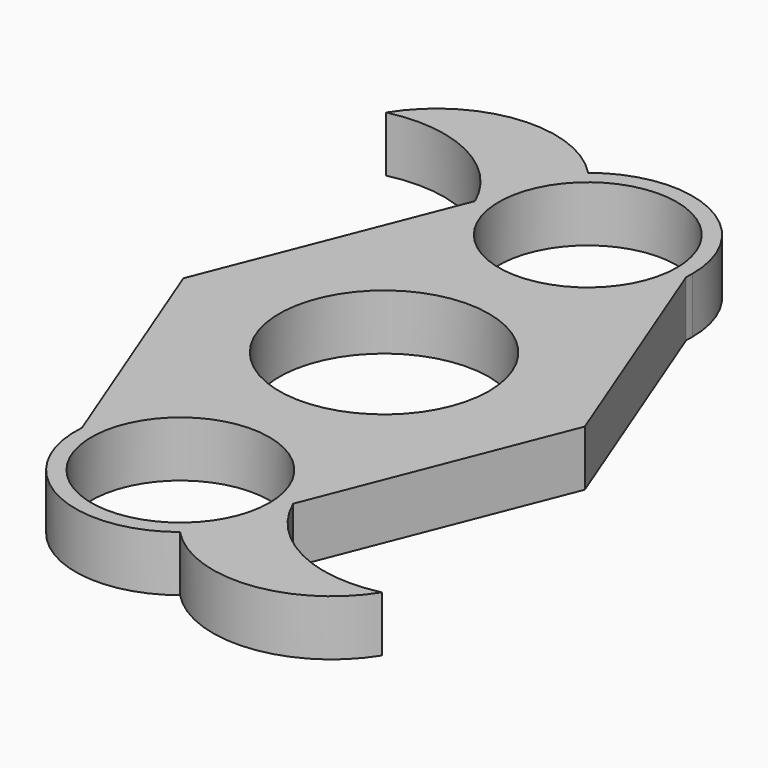
from build123d import *

# Parameters (mm, degrees)
F0_R     = 13.2
F0_R_2   = 11.2
F1_DEPTH = 7


with BuildPart() as f1:
    # F0 (on Top) → F1 (new body)
    with BuildSketch(Plane.XY):
        with BuildLine():
            Line((25.260696, 0), (13.164003, 31.0719))
            ThreePointArc((13.164003, 31.0719), (0.172192, 18.847203), (-13.134109, 30.728816))
            Line((-13.134109, 30.728816), (-25.260696, 0))
            Line((-25.260696, 0), (-13.164003, -31.0719))
            ThreePointArc((-13.164003, -31.0719), (-0.172192, -18.847203), (13.134109, -30.728816))
            Line((13.134109, -30.728816), (25.260696, 0))
        make_face()
        Circle(F0_R, mode=Mode.SUBTRACT)
        with BuildLine():
            ThreePointArc((13.164003, 31.0719), (13.190998, 31.558658), (13.2, 32.04608))
            ThreePointArc((13.2, 32.04608), (5.734035, 43.935606), (-8.218309, 42.375619))
            ThreePointArc((-8.218309, 42.375619), (-12.161145, 37.178969), (-13.134109, 30.728816))
            ThreePointArc((-13.134109, 30.728816), (0.172192, 18.847203), (13.164003, 31.0719))
        make_face()
        with Locations((0, 32.04608)):
            Circle(F0_R_2, mode=Mode.SUBTRACT)
        with BuildLine():
            ThreePointArc((-13.134109, 30.728816), (-12.161145, 37.178969), (-8.218309, 42.375619))
            ThreePointArc((-8.218309, 42.375619), (-20.557517, 46.954623), (-31.735331, 40.006258))
            ThreePointArc((-31.735331, 40.006258), (-20.760987, 38.723362), (-13.134109, 30.728816))
        make_face()
        with BuildLine():
            ThreePointArc((13.2, -32.04608), (13.183517, -31.386624), (13.134109, -30.728816))
            ThreePointArc((13.134109, -30.728816), (-0.172192, -18.847203), (-13.164003, -31.0719))
            ThreePointArc((-13.164003, -31.0719), (-6.169156, -43.715763), (8.218309, -42.375619))
            ThreePointArc((8.218309, -42.375619), (11.889527, -37.780115), (13.2, -32.04608))
        make_face()
        with Locations((0, -32.04608)):
            Circle(F0_R_2, mode=Mode.SUBTRACT)
        with BuildLine():
            ThreePointArc((31.735331, -40.006258), (20.760987, -38.723362), (13.134109, -30.728816))
            ThreePointArc((13.134109, -30.728816), (13.183517, -31.386624), (13.2, -32.04608))
            ThreePointArc((13.2, -32.04608), (11.889527, -37.780115), (8.218309, -42.375619))
            ThreePointArc((8.218309, -42.375619), (20.557517, -46.954623), (31.735331, -40.006258))
        make_face()
    extrude(amount=F1_DEPTH)


solid = f1.part
